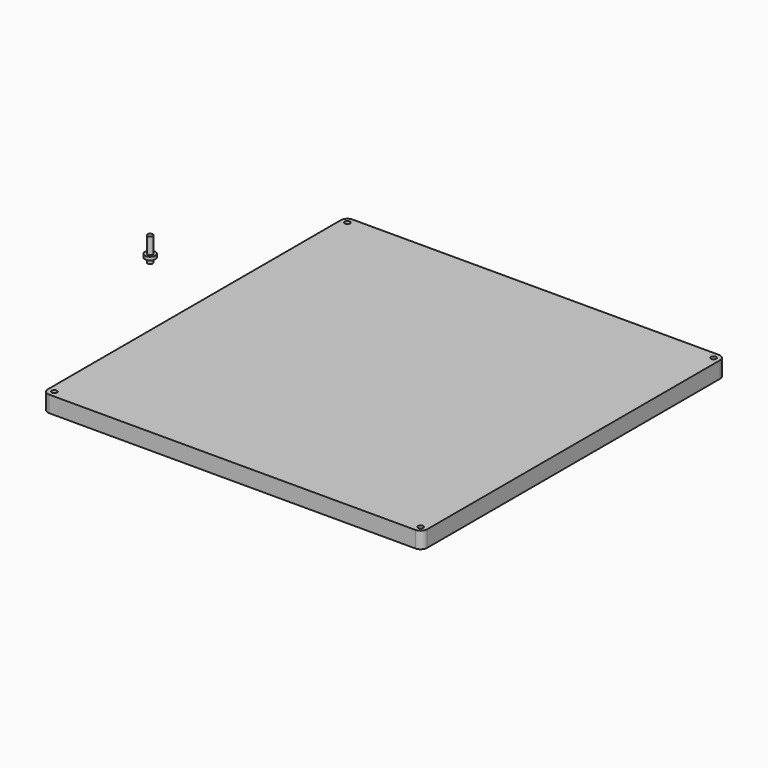
from build123d import *

# Parameters (mm, degrees)
F0_R          = 4
F0_R_2        = 50
F1_DEPTH      = 25
F2_R          = 4
F3_DEPTH      = 25
F3_DEPTH_BACK = 12
F2_R_2        = 8
F4_DEPTH      = 5
F5_DEPTH      = 5


with BuildPart() as f1:
    # F0 (on Top) → F1 (new body)
    with BuildSketch(Plane.XY):
        with BuildLine():
            ThreePointArc((290, 280), (287.071068, 287.071068), (280, 290))
            Line((280, 290), (-280, 290))
            ThreePointArc((-280, 290), (-287.071068, 287.071068), (-290, 280))
            Line((-290, 280), (-290, -280))
            ThreePointArc((-290, -280), (-287.071068, -287.071068), (-280, -290))
            Line((-280, -290), (280, -290))
            ThreePointArc((280, -290), (287.071068, -287.071068), (290, -280))
            Line((290, -280), (290, 280))
        make_face()
        with Locations((-280, -280)):
            Circle(F0_R, mode=Mode.SUBTRACT)
        with Locations((280, -280)):
            Circle(F0_R, mode=Mode.SUBTRACT)
        with Locations((-280, 280)):
            Circle(F0_R, mode=Mode.SUBTRACT)
        Circle(F0_R_2, mode=Mode.SUBTRACT)
        with Locations((280, 280)):
            Circle(F0_R, mode=Mode.SUBTRACT)
        Circle(F0_R_2)
    extrude(amount=F1_DEPTH)

    # F0 (on Top) → F5 (join)
    with BuildSketch(Plane.XY):
        Circle(F0_R_2)
    extrude(amount=-F5_DEPTH)


with BuildPart() as f3:
    # F2 (on Top) → F3 (new body, two sides)
    with BuildSketch(Plane.XY) as f3_sk:
        with Locations((-443.583548, 107.453264)):
            Circle(F2_R)
    extrude(amount=F3_DEPTH)
    extrude(f3_sk.sketch, amount=-F3_DEPTH_BACK)

    # F2 (on Top) → F4 (join)
    with BuildSketch(Plane.XY):
        with Locations((-443.583548, 107.453264)):
            Circle(F2_R_2)
        with Locations((-443.583548, 107.453264)):
            Circle(F2_R, mode=Mode.SUBTRACT)
    extrude(amount=-F4_DEPTH)


solid = Compound([f1.part, f3.part])
